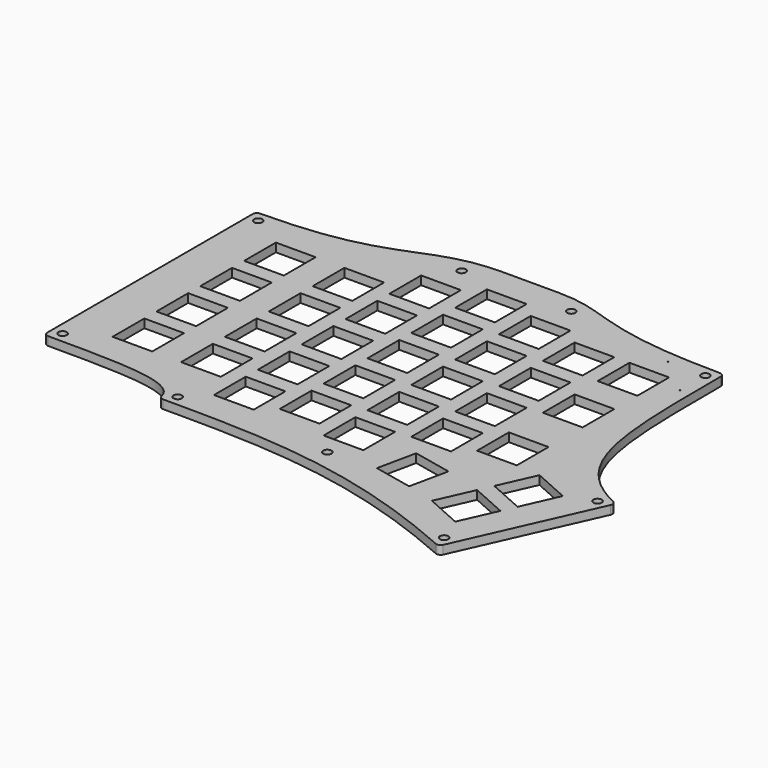
from build123d import *

# Parameters (mm, degrees)
PAD001_DEPTH    = 3
SKETCH039_R     = 1.45
POCKET_DEPTH    = 19
SKETCH058_R     = 0.15
POCKET031_DEPTH = 20
SKETCH011_W     = 13.8
SKETCH011_H     = 13.8
POCKET032_DEPTH = 6
SKETCH062_W     = 13.8
SKETCH062_H     = 13.8
POCKET033_DEPTH = 5
SKETCH063_W     = 13.8
SKETCH063_H     = 13.8
POCKET034_DEPTH = 5
SKETCH065_W     = 13.8
SKETCH065_H     = 13.8
POCKET035_DEPTH = 5
FILLET_R        = 1.5


with BuildPart() as part:
    # Sketch002 → Pad001 (new body)
    with BuildSketch(Plane.XY):
        with BuildLine():
            Line((85.725, 98.4875), (66.675, 98.4875))
            add(Edge.make_bspline(
                [(-8, 84.2), (39.625, 84.2), (39.625, 98.4875), (66.675, 98.4875)],
                knots=[0, 0, 0, 0, 1, 1, 1, 1], degree=3))
            Line((-8, 84.2), (-8, -8))
            add(Edge.make_bspline(
                [(39.625, -17.525), (39.625, -8), (20.575, -8), (-8, -8)],
                knots=[0, 0, 0, 0, 1, 1, 1, 1], degree=3))
            add(Edge.make_bspline(
                [(153.231854, -38.154949), (107.082107, -17.525), (76.2, -17.525), (39.625, -17.525)],
                knots=[0, 0, 0, 0, 1, 1, 1, 1], degree=3))
            Line((153.231854, -38.154949), (175.310198, 11.234895))
            add(Edge.make_bspline(
                [(150.875, 88.9625), (150.875, 42.8625), (150.875, 22.157965), (175.310198, 11.234895)],
                knots=[0, 0, 0, 0, 1, 1, 1, 1], degree=3))
            add(Edge.make_bspline(
                [(85.725, 98.4875), (104.775, 98.4875), (104.775, 88.9625), (150.875, 88.9625)],
                knots=[0, 0, 0, 0, 1, 1, 1, 1], degree=3))
        make_face()
        Polygon((111.623018, -12.839522), (114.492199, 0.658915), (127.990636, -2.210266), (125.121455, -15.708703), align=None, mode=Mode.SUBTRACT)
        Polygon((135.269478, -18.4871), (140.901292, -5.888582), (153.499811, -11.520396), (147.867997, -24.118914), align=None, mode=Mode.SUBTRACT)
        Polygon((143.04383, -1.095667), (148.675645, 11.502852), (161.274163, 5.871038), (155.642349, -6.727481), align=None, mode=Mode.SUBTRACT)
    extrude(amount=PAD001_DEPTH)

    # Sketch039 → Pocket (cut)
    with BuildSketch(Plane.XY):
        with Locations((-4.375, -4.375)):
            Circle(SKETCH039_R)
        with Locations((-4.375, 80.575)):
            Circle(SKETCH039_R)
        with Locations((151.401832, -33.366184)):
            Circle(SKETCH039_R)
        with Locations((170.521433, 9.404873)):
            Circle(SKETCH039_R)
        with Locations((147.25, 85.3375)):
            Circle(SKETCH039_R)
        with Locations((43.25, -13.9)):
            Circle(SKETCH039_R)
        with Locations((57.15, 92.085)):
            Circle(SKETCH039_R)
        with Locations((95.25, 92.085)):
            Circle(SKETCH039_R)
        with Locations((95.25, -13.9)):
            Circle(SKETCH039_R)
    extrude(amount=POCKET_DEPTH, mode=Mode.SUBTRACT)

    # Sketch058 → Pocket031 (cut)
    with BuildSketch(Plane.XY):
        with Locations((134.25, 85.3375)):
            Circle(SKETCH058_R)
        with Locations((147.25, 74.3375)):
            Circle(SKETCH058_R)
    extrude(amount=POCKET031_DEPTH, mode=Mode.SUBTRACT)

    # Sketch011 (on Face22 of Pad001) → Pocket032 (cut)
    with BuildSketch(Plane.XY.offset(3)):
        with Locations((57.15, 0)):
            Rectangle(SKETCH011_W, SKETCH011_H)
        with Locations((57.15, 19.05)):
            Rectangle(SKETCH011_W, SKETCH011_H)
        with Locations((57.15, 38.1)):
            Rectangle(SKETCH011_W, SKETCH011_H)
        with Locations((57.15, 57.15)):
            Rectangle(SKETCH011_W, SKETCH011_H)
        with Locations((57.15, 76.2)):
            Rectangle(SKETCH011_W, SKETCH011_H)
        with Locations((76.2, 80.9625)):
            Rectangle(SKETCH011_W, SKETCH011_H)
        with Locations((76.2, 61.9125)):
            Rectangle(SKETCH011_W, SKETCH011_H)
        with Locations((76.2, 42.8625)):
            Rectangle(SKETCH011_W, SKETCH011_H)
        with Locations((76.2, 23.8125)):
            Rectangle(SKETCH011_W, SKETCH011_H)
        with Locations((76.2, 4.7625)):
            Rectangle(SKETCH011_W, SKETCH011_H)
        with Locations((95.25, 0)):
            Rectangle(SKETCH011_W, SKETCH011_H)
        with Locations((95.25, 19.05)):
            Rectangle(SKETCH011_W, SKETCH011_H)
        with Locations((95.25, 38.1)):
            Rectangle(SKETCH011_W, SKETCH011_H)
        with Locations((95.25, 57.15)):
            Rectangle(SKETCH011_W, SKETCH011_H)
        with Locations((95.25, 76.2)):
            Rectangle(SKETCH011_W, SKETCH011_H)
    extrude(amount=-POCKET032_DEPTH, mode=Mode.SUBTRACT)

    # Sketch062 (on Face22 of Pad001) → Pocket033 (cut)
    with BuildSketch(Plane.XY.offset(3)):
        with Locations((38.1, 66.675)):
            Rectangle(SKETCH062_W, SKETCH062_H)
        with Locations((38.1, 47.625)):
            Rectangle(SKETCH062_W, SKETCH062_H)
        with Locations((38.1, 28.575)):
            Rectangle(SKETCH062_W, SKETCH062_H)
        with Locations((38.1, 9.525)):
            Rectangle(SKETCH062_W, SKETCH062_H)
        with Locations((114.3, 14.2875)):
            Rectangle(SKETCH062_W, SKETCH062_H)
        with Locations((114.3, 33.3375)):
            Rectangle(SKETCH062_W, SKETCH062_H)
        with Locations((114.3, 52.3875)):
            Rectangle(SKETCH062_W, SKETCH062_H)
        with Locations((114.3, 71.4375)):
            Rectangle(SKETCH062_W, SKETCH062_H)
    extrude(amount=-POCKET033_DEPTH, mode=Mode.SUBTRACT)

    # Sketch063 (on Face22 of Pad001) → Pocket034 (cut)
    with BuildSketch(Plane.XY.offset(3)):
        with Locations((133.35, 71.4375)):
            Rectangle(SKETCH063_W, SKETCH063_H)
        with Locations((133.35, 47.625)):
            Rectangle(SKETCH063_W, SKETCH063_H)
        with Locations((133.35, 19.05)):
            Rectangle(SKETCH063_W, SKETCH063_H)
    extrude(amount=-POCKET034_DEPTH, mode=Mode.SUBTRACT)

    # Sketch065 (on Face22 of Pad001) → Pocket035 (cut)
    with BuildSketch(Plane.XY.offset(3)):
        with Locations((14.2875, 66.675)):
            Rectangle(SKETCH065_W, SKETCH065_H)
        with Locations((14.2875, 47.625)):
            Rectangle(SKETCH065_W, SKETCH065_H)
        with Locations((14.2875, 28.575)):
            Rectangle(SKETCH065_W, SKETCH065_H)
        with Locations((14.2875, 9.525)):
            Rectangle(SKETCH065_W, SKETCH065_H)
    extrude(amount=-POCKET035_DEPTH, mode=Mode.SUBTRACT)

    # Fillet
    fillet_edges = [part.edges().sort_by_distance(p)[0] for p in [
        (-8, -8, 1.5),
        (39.625, -17.525, 1.5),
        (153.231854, -38.154949, 1.5),
        (-8, 84.2, 1.5),
        (150.875, 88.9625, 1.5),
        (175.310198, 11.234895, 1.5),
    ]]
    fillet(fillet_edges, radius=FILLET_R)


solid = part.part
